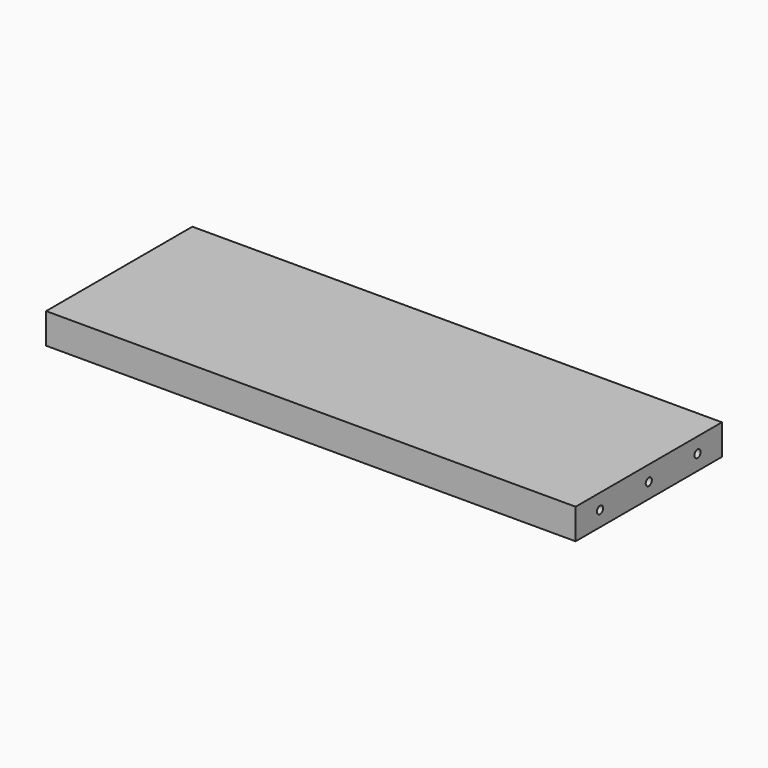
from build123d import *

# Parameters (mm, degrees)
F0_W     = 441.325
F0_H     = 25.4
F1_DEPTH = 152.4
F2_R     = 3.175
F4_DEPTH = 31.75
F3_R     = 3.175
F5_DEPTH = 31.75


with BuildPart() as f1:
    # F0 (on Front) → F1 (new body)
    with BuildSketch(Plane.XZ):
        with Locations((3.6871, -6.927435)):
            Rectangle(F0_W, F0_H)
    extrude(amount=F1_DEPTH)

    # F2 (on face) → F4 (cut)
    with BuildSketch(Plane(origin=(-216.9754, 0, 0), x_dir=(0, -1, 0), z_dir=(-1, 0, 0))):
        with Locations((25.4, -6.927435)):
            Circle(F2_R)
        with Locations((76.2, -6.927435)):
            Circle(F2_R)
        with Locations((127, -6.927435)):
            Circle(F2_R)
    extrude(amount=-F4_DEPTH, mode=Mode.SUBTRACT)

    # F3 (on face) → F5 (cut)
    with BuildSketch(Plane.YZ.offset(224.3496)):
        with Locations((-25.4, -6.927435)):
            Circle(F3_R)
        with Locations((-76.2, -6.927435)):
            Circle(F3_R)
        with Locations((-127, -6.927435)):
            Circle(F3_R)
    extrude(amount=-F5_DEPTH, mode=Mode.SUBTRACT)


solid = f1.part
